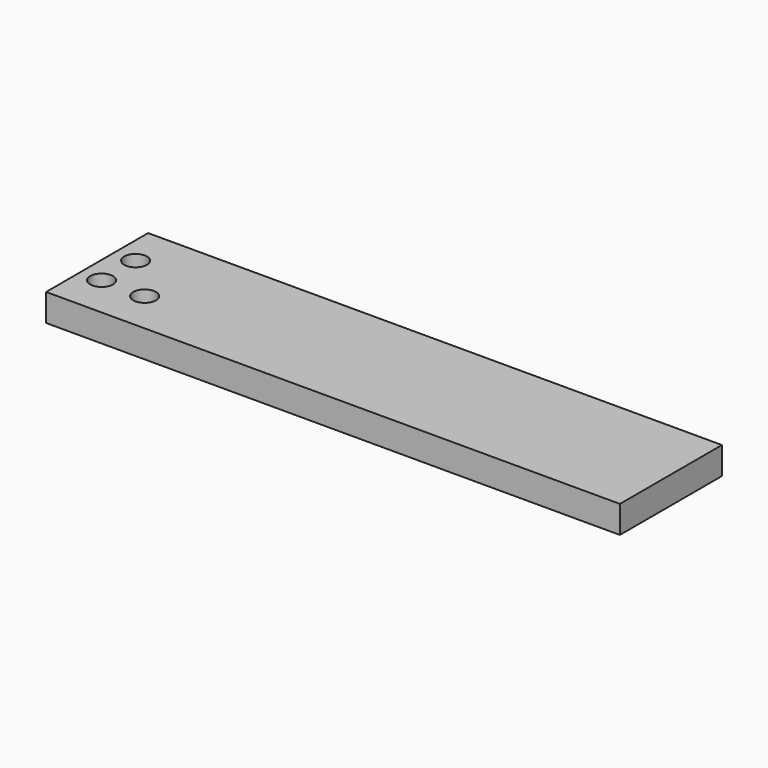
from build123d import *

# Parameters (mm, degrees)
SKETCH_W  = 400
SKETCH_H  = 88.9
SKETCH_R  = 7.9375
PAD_DEPTH = 19.05


with BuildPart() as part:
    # Sketch → Pad (new body)
    with BuildSketch(Plane.XY):
        with Locations((200, 44.45)):
            Rectangle(SKETCH_W, SKETCH_H)
        with Locations((15, 29.633333)):
            Circle(SKETCH_R, mode=Mode.SUBTRACT)
        with Locations((45, 29.633333)):
            Circle(SKETCH_R, mode=Mode.SUBTRACT)
        with Locations((15, 59.266667)):
            Circle(SKETCH_R, mode=Mode.SUBTRACT)
    extrude(amount=PAD_DEPTH)


solid = part.part
